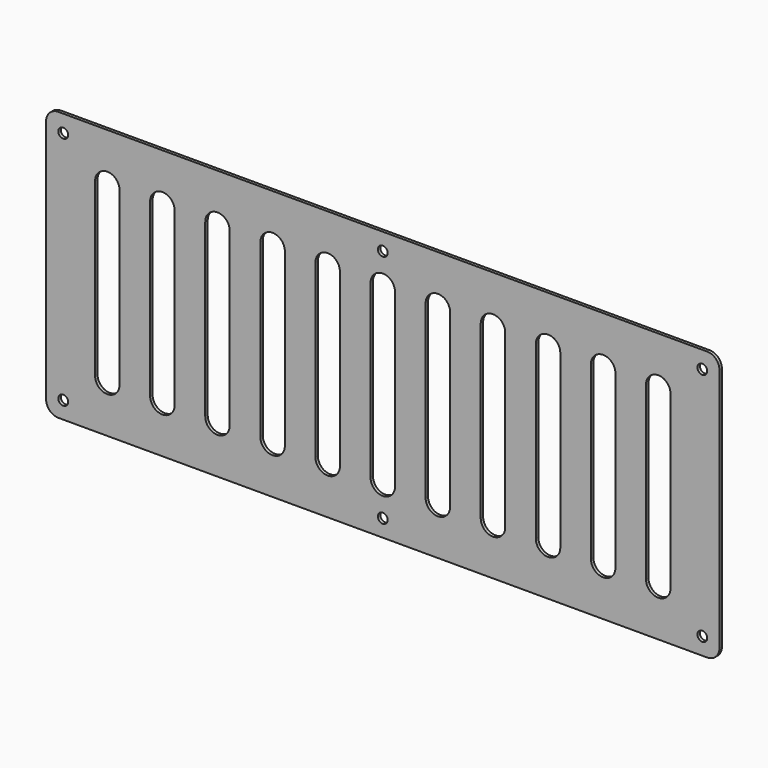
from build123d import *

# Parameters (mm, degrees)
F0_R     = 4
F1_DEPTH = 2.5


with BuildPart() as f1:
    # F0 (on Front) → F1 (new body)
    with BuildSketch(Plane.XZ):
        with BuildLine():
            ThreePointArc((0, 10), (2.928932, 2.928932), (10, 0))
            Line((10, 0), (540, 0))
            ThreePointArc((540, 0), (547.071068, 2.928932), (550, 10))
            Line((550, 10), (550, 210))
            ThreePointArc((550, 210), (547.071068, 217.071068), (540, 220))
            Line((540, 220), (10, 220))
            ThreePointArc((10, 220), (2.928932, 217.071068), (0, 210))
            Line((0, 210), (0, 10))
        make_face()
        with Locations((14, 14)):
            Circle(F0_R, mode=Mode.SUBTRACT)
        with BuildLine():
            Line((220.000318, 40.079729), (220.000318, 179.920271))
            ThreePointArc((220.000318, 179.920271), (229.960135, 189.999921), (240, 180))
            Line((240, 180), (240, 40))
            ThreePointArc((240, 40), (230.039865, 30.000079), (220.000318, 39.920271))
            ThreePointArc((220.000318, 39.920271), (220, 40), (220.000318, 40.079729))
        make_face(mode=Mode.SUBTRACT)
        with Locations((275, 14)):
            Circle(F0_R, mode=Mode.SUBTRACT)
        with Locations((536, 14)):
            Circle(F0_R, mode=Mode.SUBTRACT)
        with BuildLine():
            Line((265.000318, 40.079729), (265.000318, 179.920271))
            ThreePointArc((265.000318, 179.920271), (274.960135, 189.999921), (285, 180))
            Line((285, 180), (285, 40))
            ThreePointArc((285, 40), (275.039865, 30.000079), (265.000318, 39.920271))
            ThreePointArc((265.000318, 39.920271), (265, 40), (265.000318, 40.079729))
        make_face(mode=Mode.SUBTRACT)
        with BuildLine():
            ThreePointArc((40.000318, 179.920271), (49.960135, 189.999921), (60, 180))
            Line((60, 180), (60, 40))
            ThreePointArc((60, 40), (50.039865, 30.000079), (40.000318, 39.920271))
            ThreePointArc((40.000318, 39.920271), (40, 40), (40.000318, 40.079729))
            Line((40.000318, 40.079729), (40.000318, 179.920271))
        make_face(mode=Mode.SUBTRACT)
        with BuildLine():
            Line((85.000318, 40.079729), (85.000318, 179.920271))
            ThreePointArc((85.000318, 179.920271), (94.960135, 189.999921), (105, 180))
            Line((105, 180), (105, 40))
            ThreePointArc((105, 40), (95.039865, 30.000079), (85.000318, 39.920271))
            ThreePointArc((85.000318, 39.920271), (85, 40), (85.000318, 40.079729))
        make_face(mode=Mode.SUBTRACT)
        with BuildLine():
            Line((130.000318, 40.079729), (130.000318, 179.920271))
            ThreePointArc((130.000318, 179.920271), (139.960135, 189.999921), (150, 180))
            Line((150, 180), (150, 40))
            ThreePointArc((150, 40), (140.039865, 30.000079), (130.000318, 39.920271))
            ThreePointArc((130.000318, 39.920271), (130, 40), (130.000318, 40.079729))
        make_face(mode=Mode.SUBTRACT)
        with BuildLine():
            Line((175.000318, 40.079729), (175.000318, 179.920271))
            ThreePointArc((175.000318, 179.920271), (184.960135, 189.999921), (195, 180))
            Line((195, 180), (195, 40))
            ThreePointArc((195, 40), (185.039865, 30.000079), (175.000318, 39.920271))
            ThreePointArc((175.000318, 39.920271), (175, 40), (175.000318, 40.079729))
        make_face(mode=Mode.SUBTRACT)
        with Locations((14, 206)):
            Circle(F0_R, mode=Mode.SUBTRACT)
        with BuildLine():
            Line((310.000318, 40.079729), (310.000318, 179.920271))
            ThreePointArc((310.000318, 179.920271), (319.960135, 189.999921), (330, 180))
            Line((330, 180), (330, 40))
            ThreePointArc((330, 40), (320.039865, 30.000079), (310.000318, 39.920271))
            ThreePointArc((310.000318, 39.920271), (310, 40), (310.000318, 40.079729))
        make_face(mode=Mode.SUBTRACT)
        with BuildLine():
            Line((355.000318, 40.079729), (355.000318, 179.920271))
            ThreePointArc((355.000318, 179.920271), (364.960135, 189.999921), (375, 180))
            Line((375, 180), (375, 40))
            ThreePointArc((375, 40), (365.039865, 30.000079), (355.000318, 39.920271))
            ThreePointArc((355.000318, 39.920271), (355, 40), (355.000318, 40.079729))
        make_face(mode=Mode.SUBTRACT)
        with BuildLine():
            Line((400.000318, 40.079729), (400.000318, 179.920271))
            ThreePointArc((400.000318, 179.920271), (409.960135, 189.999921), (420, 180))
            Line((420, 180), (420, 40))
            ThreePointArc((420, 40), (410.039865, 30.000079), (400.000318, 39.920271))
            ThreePointArc((400.000318, 39.920271), (400, 40), (400.000318, 40.079729))
        make_face(mode=Mode.SUBTRACT)
        with BuildLine():
            Line((445.000318, 40.079729), (445.000318, 179.920271))
            ThreePointArc((445.000318, 179.920271), (454.960135, 189.999921), (465, 180))
            Line((465, 180), (465, 40))
            ThreePointArc((465, 40), (455.039865, 30.000079), (445.000318, 39.920271))
            ThreePointArc((445.000318, 39.920271), (445, 40), (445.000318, 40.079729))
        make_face(mode=Mode.SUBTRACT)
        with BuildLine():
            Line((490.000318, 40.079729), (490.000318, 179.920271))
            ThreePointArc((490.000318, 179.920271), (499.960135, 189.999921), (510, 180))
            Line((510, 180), (510, 40))
            ThreePointArc((510, 40), (500.039865, 30.000079), (490.000318, 39.920271))
            ThreePointArc((490.000318, 39.920271), (490, 40), (490.000318, 40.079729))
        make_face(mode=Mode.SUBTRACT)
        with Locations((275, 206)):
            Circle(F0_R, mode=Mode.SUBTRACT)
        with Locations((536, 206)):
            Circle(F0_R, mode=Mode.SUBTRACT)
    extrude(amount=F1_DEPTH)


solid = f1.part
